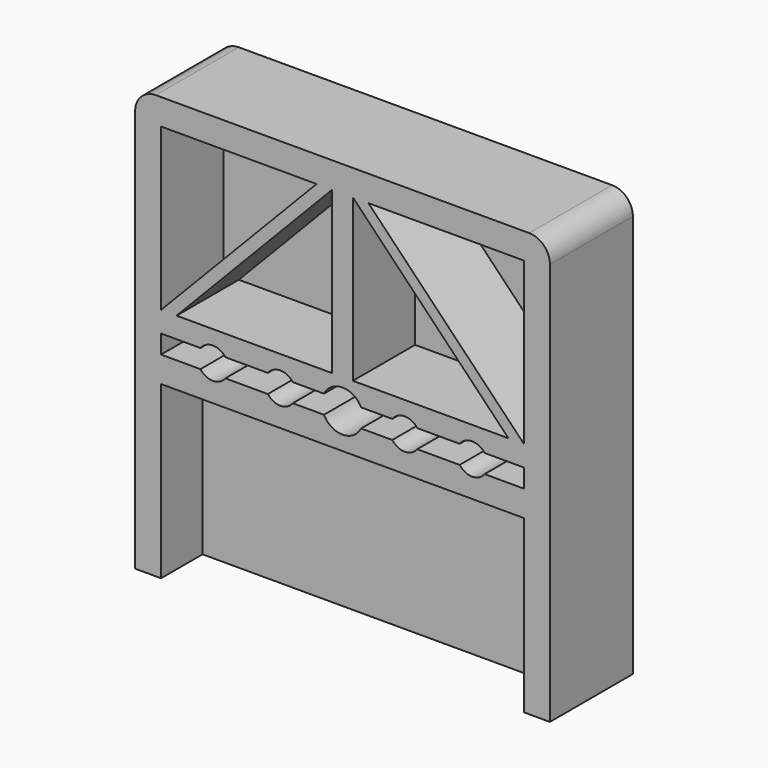
from build123d import *

# Parameters (mm, degrees)
F0_W      = 101.6
F0_H      = 103.766376869
F1_DEPTH  = 25.4
F2_DEPTH  = 6.35
F3_R      = 5.08
F4_W      = 88.9
F4_H      = 4.550592151
F5_DEPTH  = 25.4
F6_W      = 41.91
F6_H      = 35.5364200096
F6_W_2    = 5.08
F7_DEPTH  = 12.7
F8_W      = 88.9
F8_H      = 6.35
F9_DEPTH  = 12.7
F11_DEPTH = 25.4


with BuildPart() as f1:
    # F0 (on Front) → F1 (new body)
    with BuildSketch(Plane.XZ):
        with Locations((-0.5670151889, -2.7032315751)):
            Rectangle(F0_W, F0_H)
        Polygon((-45.0170151889, 3.280592151), (-45.0170151889, 42.8299568594), (-6.9170151889, 42.8299568594), align=None, mode=Mode.SUBTRACT)
        Polygon((-3.1070151889, 3.280592151), (-41.2070151889, 3.280592151), (-3.1070151889, 42.8299568594), align=None, mode=Mode.SUBTRACT)
        Polygon((1.9729848111, 42.8299568594), (40.0729848111, 3.280592151), (1.9729848111, 3.280592151), align=None, mode=Mode.SUBTRACT)
        Polygon((5.7829848111, 42.8299568594), (43.8829848111, 42.8299568594), (43.8829848111, 3.280592151), align=None, mode=Mode.SUBTRACT)
    extrude(amount=F1_DEPTH)

    # F0 (on Front) → F2 (join)
    with BuildSketch(Plane.XZ):
        Polygon((-6.9170151889, 42.8299568594), (-45.0170151889, 42.8299568594), (-45.0170151889, 3.280592151), align=None)
        Polygon((-3.1070151889, 42.8299568594), (-41.2070151889, 3.280592151), (-3.1070151889, 3.280592151), align=None)
        Polygon((1.9729848111, 3.280592151), (40.0729848111, 3.280592151), (1.9729848111, 42.8299568594), align=None)
        Polygon((43.8829848111, 3.280592151), (43.8829848111, 42.8299568594), (5.7829848111, 42.8299568594), align=None)
    extrude(amount=F2_DEPTH)

    # F3
    f3_edges = [f1.edges().sort_by_distance(p)[0] for p in [
        (-51.367015, -12.7, 49.179957),
        (50.232985, -12.7, 49.179957),
    ]]
    fillet(f3_edges, radius=F3_R)

    # F4 (on face) → F5 (cut)
    with BuildSketch(Plane.XZ.offset(25.4)):
        with Locations((-0.5670151889, -4.0747039245)):
            Rectangle(F4_W, F4_H)
    extrude(amount=-F5_DEPTH, mode=Mode.SUBTRACT)

    # F6 (on face) → F7 (cut)
    with BuildSketch(Plane.XZ.offset(25.4)):
        with Locations((-24.0620151889, -30.4682100048)):
            Rectangle(F6_W, F6_H)
        with Locations((22.9279848111, -30.4682100048)):
            Rectangle(F6_W, F6_H)
        with Locations((-0.5670151889, -30.4682100048)):
            Rectangle(F6_W_2, F6_H)
    extrude(amount=-F7_DEPTH, mode=Mode.SUBTRACT)

    # F8 (on face) → F9 (cut)
    with BuildSketch(Plane.XZ.offset(25.4)):
        with Locations((-0.5670151889, -51.4114200096)):
            Rectangle(F8_W, F8_H)
    extrude(amount=-F9_DEPTH, mode=Mode.SUBTRACT)

    # F10 (on face) → F11 (cut)
    with BuildSketch(Plane.XZ.offset(25.4)):
        with BuildLine():
            ThreePointArc((-28.5070151889, -4.0747039245), (-32.3170151889, -0.2647039245), (-36.1270151889, -4.0747039245))
            Line((-36.1270151889, -4.0747039245), (-28.5070151889, -4.0747039245))
        make_face()
        with BuildLine():
            ThreePointArc((34.9929848111, -4.0747039245), (31.1829848111, -0.2647039245), (27.3729848111, -4.0747039245))
            Line((27.3729848111, -4.0747039245), (34.9929848111, -4.0747039245))
        make_face()
        with BuildLine():
            Line((34.9929848111, -4.0747039245), (27.3729848111, -4.0747039245))
            ThreePointArc((27.3729848111, -4.0747039245), (31.1829848111, -7.8847039245), (34.9929848111, -4.0747039245))
        make_face()
        with BuildLine():
            ThreePointArc((18.4829848111, -4.0747039245), (14.6729848111, -0.2647039245), (10.8629848111, -4.0747039245))
            Line((10.8629848111, -4.0747039245), (18.4829848111, -4.0747039245))
        make_face()
        with BuildLine():
            Line((18.4829848111, -4.0747039245), (10.8629848111, -4.0747039245))
            ThreePointArc((10.8629848111, -4.0747039245), (14.6729848111, -7.8847039245), (18.4829848111, -4.0747039245))
        make_face()
        with BuildLine():
            ThreePointArc((4.5129848111, -4.0747039245), (-0.5670151889, 1.0052960755), (-5.6470151889, -4.0747039245))
            Line((-5.6470151889, -4.0747039245), (4.5129848111, -4.0747039245))
        make_face()
        with BuildLine():
            Line((4.5129848111, -4.0747039245), (-5.6470151889, -4.0747039245))
            ThreePointArc((-5.6470151889, -4.0747039245), (-0.5670151889, -9.1547039245), (4.5129848111, -4.0747039245))
        make_face()
        with BuildLine():
            ThreePointArc((-11.9970151889, -4.0747039245), (-15.8070151889, -0.2647039245), (-19.6170151889, -4.0747039245))
            Line((-19.6170151889, -4.0747039245), (-11.9970151889, -4.0747039245))
        make_face()
        with BuildLine():
            Line((-11.9970151889, -4.0747039245), (-19.6170151889, -4.0747039245))
            ThreePointArc((-19.6170151889, -4.0747039245), (-15.8070151889, -7.8847039245), (-11.9970151889, -4.0747039245))
        make_face()
        with BuildLine():
            Line((-28.5070151889, -4.0747039245), (-36.1270151889, -4.0747039245))
            ThreePointArc((-36.1270151889, -4.0747039245), (-32.3170151889, -7.8847039245), (-28.5070151889, -4.0747039245))
        make_face()
    extrude(amount=-F11_DEPTH, mode=Mode.SUBTRACT)


solid = f1.part
